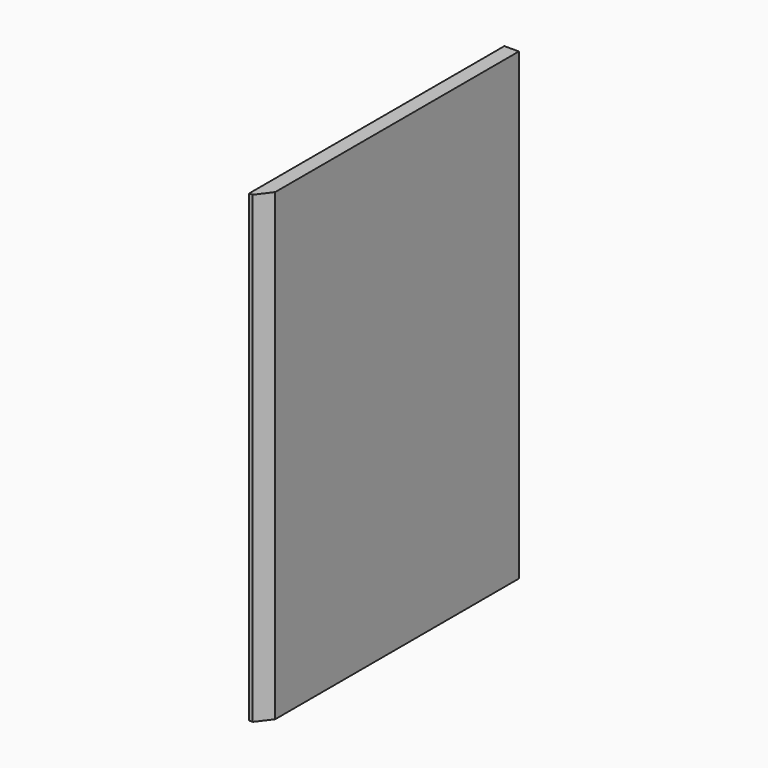
from build123d import *

# Parameters (mm, degrees)
F0_W     = 558.8
F0_H     = 812.8
F1_DEPTH = 25.4
F2_SIZE2 = 25.4
F2_SIZE  = 19.05


with BuildPart() as f1:
    # F0 (on Right) → F1 (new body)
    with BuildSketch(Plane.YZ):
        Rectangle(F0_W, F0_H)
    extrude(amount=F1_DEPTH)

    # F2
    f2_edges = [f1.edges().sort_by_distance(p)[0] for p in [
        (25.4, -279.4, 0),
    ]]
    chamfer(f2_edges, length=F2_SIZE, length2=F2_SIZE2)


solid = f1.part
